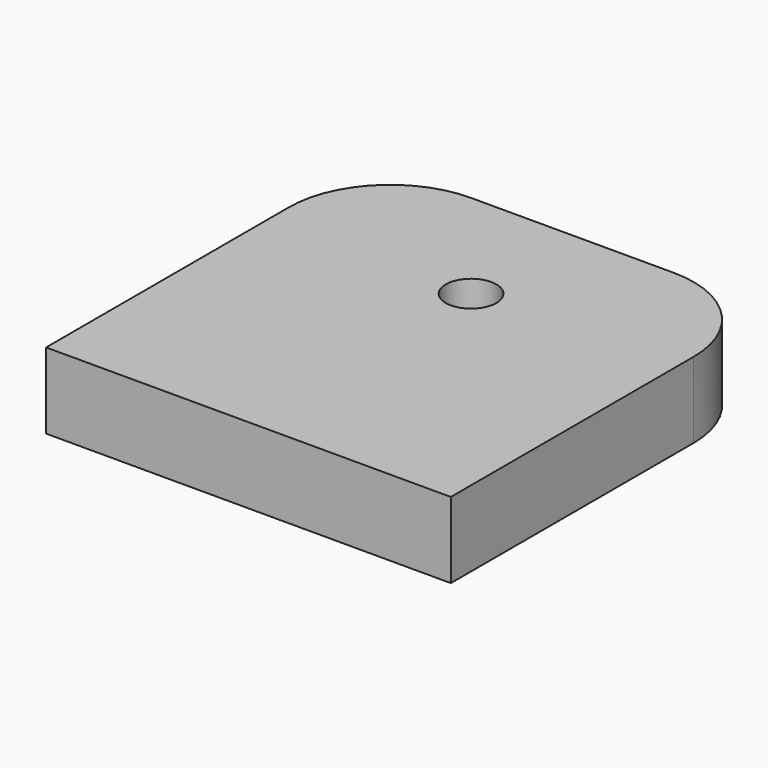
from build123d import *

# Parameters (mm, degrees)
F0_W     = 25.4
F0_H     = 25.4
F0_R     = 1.5875
F1_DEPTH = 4.7625
F2_R     = 6.35


with BuildPart() as f1:
    # F0 (on Top) → F1 (new body)
    with BuildSketch(Plane.XY):
        with Locations((0, 12.7)):
            Rectangle(F0_W, F0_H)
        with Locations((0, 17.4625)):
            Circle(F0_R, mode=Mode.SUBTRACT)
    extrude(amount=F1_DEPTH)

    # F2
    f2_edges = [f1.edges().sort_by_distance(p)[0] for p in [
        (-12.7, 25.4, 2.38125),
        (12.7, 25.4, 2.38125),
    ]]
    fillet(f2_edges, radius=F2_R)


solid = f1.part
